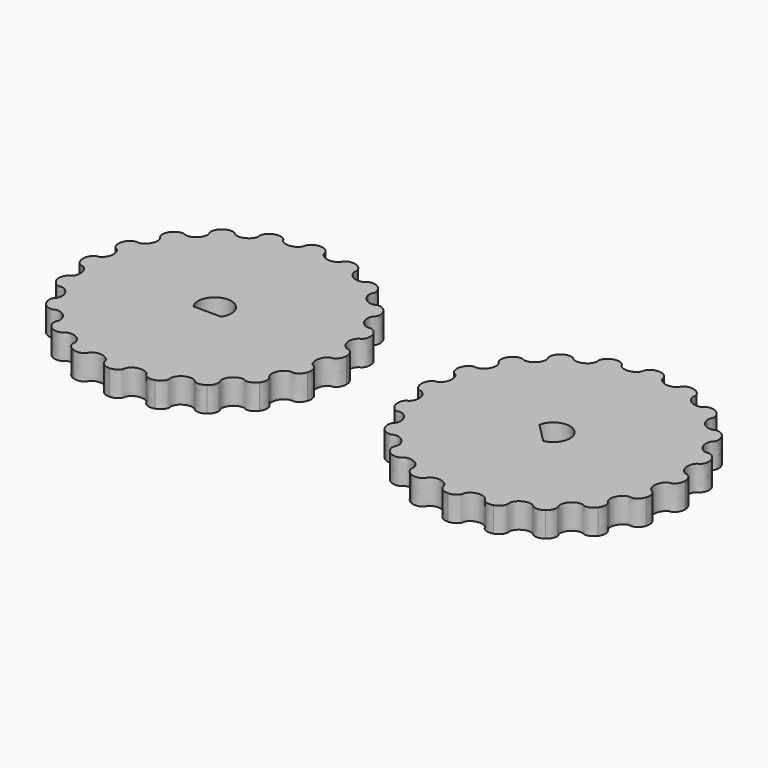
from build123d import *

# Parameters (mm, degrees)
F5_DEPTH  = 6.35
F6_COUNT  = 20
F9_DEPTH  = 25.4
F11_DEPTH = 6.3510001


with BuildPart() as f5:
    # F4 (on Top) → F5 (new body)
    with BuildSketch(Plane.XY):
        with BuildLine():
            add(Edge.make_bspline(
                [(-6.7635559443, 20.8160847824), (-4.4074763144, 22.1060301965), (-2.1085261983, 23.4117258001), (0, 24.6519870108)],
                knots=[0.7708555456, 0.7708555456, 0.7708555456, 0.7708555456, 0.7828832364, 0.7828832364, 0.7828832364, 0.7828832364], degree=3))
            Line((0, 24.6519870108), (0, 33.3375))
            add(Edge.make_bspline(
                [(0, 33.3375), (-0.4208270009, 33.3375000001), (-1.2291328053, 33.1644357649), (-2.0905152398, 32.5657356941), (-2.4644876376, 31.9210656061), (-2.4920576214, 31.6523589764), (-2.5109939066, 31.3977059082), (-2.8311484302, 30.7654534547), (-3.5863253104, 30.1212407757), (-4.706325596, 29.7145703606), (-5.8971772353, 29.7552377869), (-6.814465794, 30.1345579634), (-7.3143275928, 30.6369325906), (-7.411029196, 30.8732704166), (-7.5202847238, 31.1203060143), (-8.0751676225, 31.6178598759), (-9.0793994965, 31.9210756686), (-9.9016237882, 31.8358893071), (-10.30185405, 31.705846612)],
                knots=[0, 0, 0, 0, 0.0149333657, 0.0286833453, 0.0399238076, 0.0465917476, 0.0530978175, 0.0640675169, 0.0774864853, 0.0920604012, 0.1066343172, 0.1200532856, 0.1310229849, 0.1375290549, 0.1441969948, 0.1554374571, 0.1691874367, 0.1841208024, 0.1841208024, 0.1841208024, 0.1841208024], degree=3))
            Line((-10.30185405, 31.705846612), (-6.7635559443, 20.8160847824))
        make_face()
        with BuildLine():
            ThreePointArc((-1.2656563547, 3.8952897266), (-0.6407164602, 4.045324521), (0, 4.09575))
            Line((0, 4.09575), (0, 24.6519870108))
            add(Edge.make_bspline(
                [(-6.7635559443, 20.8160847824), (-4.4074763144, 22.1060301965), (-2.1085261983, 23.4117258001), (0, 24.6519870108)],
                knots=[0.7708555456, 0.7708555456, 0.7708555456, 0.7708555456, 0.7828832364, 0.7828832364, 0.7828832364, 0.7828832364], degree=3))
            Line((-6.7635559443, 20.8160847824), (-1.2656563547, 3.8952897266))
        make_face()
        with BuildLine():
            Line((-1.2656563547, 3.8952897266), (0, 0))
            Line((0, 0), (0, 4.09575))
            ThreePointArc((0, 4.09575), (-0.6407164602, 4.045324521), (-1.2656563547, 3.8952897266))
        make_face()
    extrude(amount=F5_DEPTH)

    # F6: F5 ×20 about axis
    f6_axis = Axis((0, 0, 3.175), (0, 0, -1))


with BuildPart() as f5_1:
    add(f5.part)
    for i in range(1, F6_COUNT):
        add(f5.part.rotate(f6_axis, i * 360 / F6_COUNT))


with BuildPart() as f7_1:
    # F7: copy of F5
    add(f5_1.part.moved(Location((85.598, 0, 0))))

    # F10 (on face) → F11 (cut, through all)
    with BuildSketch(Plane.XY.offset(6.35)):
        with BuildLine():
            ThreePointArc((86.3930745334, -4.1536903226), (88.8574275969, -2.6947019409), (89.8271, 0))
            ThreePointArc((89.8271, 0), (85.9973213409, 4.2102053723), (81.4443096774, 0.7950745334))
            Line((81.4443096774, 0.7950745334), (86.3930745334, -4.1536903226))
        make_face()
    extrude(amount=-F11_DEPTH, mode=Mode.SUBTRACT)


with BuildPart() as f5_2:
    add(f5_1.part)

    # F8 (on face) → F9 (cut)
    with BuildSketch(Plane.XY.offset(6.35)):
        with BuildLine():
            ThreePointArc((3.4993051882, -2.3749), (4.0425362324, -1.2422510291), (4.2291, 0))
            ThreePointArc((4.2291, 0), (-1.2422510291, 4.0425362324), (-3.4993051882, -2.3749))
            Line((-3.4993051882, -2.3749), (3.4993051882, -2.3749))
        make_face()
    extrude(amount=-F9_DEPTH, mode=Mode.SUBTRACT)


solid = Compound([f7_1.part, f5_2.part])
